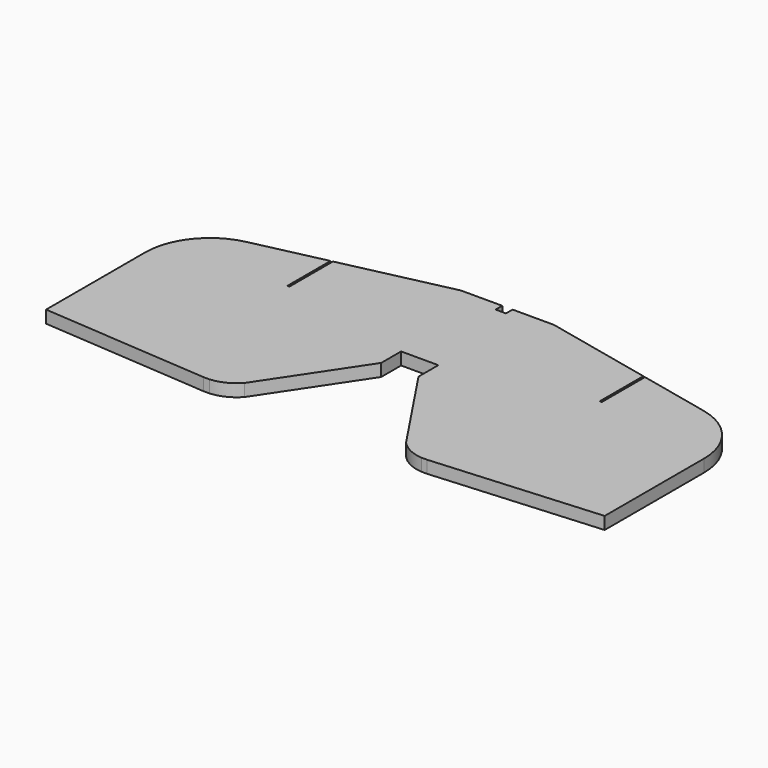
from build123d import *

# Parameters (mm, degrees)
F1_DEPTH = 6


with BuildPart() as f1:
    # F0 (on Top) → F1 (new body)
    with BuildSketch(Plane.XY):
        with BuildLine():
            Line((-135, 21.9318206776), (-135, -38.0681793224))
            Line((-135, -38.0681793224), (-54, -38.0681793224))
            Line((-54, -38.0681793224), (-39, -38.0681793224))
            Line((-39, -38.0681793224), (-39, 6.9318206776))
            Line((-39, 6.9318206776), (-9, 6.9318206776))
            Line((-9, 6.9318206776), (-9, 18.9318206776))
            Line((-9, 18.9318206776), (-9, 33.9318206776))
            Line((-9, 33.9318206776), (-75, 33.9318206776))
            Line((-75, 33.9318206776), (-76, 33.9318206776))
            Line((-76, 33.9318206776), (-76, 46.9318206776))
            Line((-76, 46.9318206776), (-122.4432589807, 46.9318206776))
            ThreePointArc((-122.4432589807, 46.9318206776), (-131.6844515136, 35.9199562309), (-135, 21.9318206776))
        make_face()
        Polygon((-39, 6.9318206776), (-39, -38.0681793224), (-9, 6.9318206776), align=None)
        Polygon((9, 6.9318206776), (39, -38.0681793224), (39, 6.9318206776), align=None)
        with BuildLine():
            Line((54, -38.0681793224), (135, -38.0681793224))
            Line((135, -38.0681793224), (135, 21.9318206776))
            ThreePointArc((135, 21.9318206776), (131.6844515136, 35.9199562309), (122.4432589807, 46.9318206776))
            Line((122.4432589807, 46.9318206776), (76, 46.9318206776))
            Line((76, 46.9318206776), (76, 33.9318206776))
            Line((76, 33.9318206776), (75, 33.9318206776))
            Line((75, 33.9318206776), (9, 33.9318206776))
            Line((9, 33.9318206776), (9, 18.9318206776))
            Line((9, 18.9318206776), (9, 6.9318206776))
            Line((9, 6.9318206776), (39, 6.9318206776))
            Line((39, 6.9318206776), (39, -38.0681793224))
            Line((39, -38.0681793224), (54, -38.0681793224))
        make_face()
        with BuildLine():
            Line((-39, -38.0681793224), (-54, -38.0681793224))
            Line((-54, -38.0681793224), (-54, -44.0681793224))
            Line((-54, -44.0681793224), (-51.28125, -44.0681793224))
            ThreePointArc((-51.28125, -44.0681793224), (-44.5628777893, -42.2507556443), (-39, -38.0681793224))
        make_face()
        Polygon((-54, -38.0681793224), (-135, -38.0681793224), (-54, -44.0681793224), align=None)
        with BuildLine():
            Line((54, -44.0681793224), (54, -38.0681793224))
            Line((54, -38.0681793224), (39, -38.0681793224))
            ThreePointArc((39, -38.0681793224), (44.5628777893, -42.2507556443), (51.28125, -44.0681793224))
            Line((51.28125, -44.0681793224), (54, -44.0681793224))
        make_face()
        Polygon((54, -44.0681793224), (135, -38.0681793224), (54, -38.0681793224), align=None)
        Polygon((75, 33.9318206776), (75, 46.9318206776), (-75, 46.9318206776), (-75, 33.9318206776), (-9, 33.9318206776), (0, 33.9318206776), (9, 33.9318206776), align=None)
        Polygon((22.5, 62.9270896316), (22.5, 71.9318206776), (2.5, 71.9318206776), (2.5, 67.9318206776), (-2.5, 67.9318206776), (-2.5, 71.9318206776), (-22.5, 71.9318206776), (-22.5, 62.9270896316), align=None)
        with BuildLine():
            ThreePointArc((-110.5953234954, 52.3550821231), (-116.8058887661, 50.2695670793), (-122.4432589807, 46.9318206776))
            Line((-122.4432589807, 46.9318206776), (-76, 46.9318206776))
            Line((-76, 46.9318206776), (-76, 60.0429317887))
            Line((-76, 60.0429317887), (-110.5953234954, 52.3550821231))
        make_face()
        with BuildLine():
            Line((76, 46.9318206776), (122.4432589807, 46.9318206776))
            ThreePointArc((122.4432589807, 46.9318206776), (116.8058887661, 50.2695670793), (110.5953234954, 52.3550821231))
            Line((110.5953234954, 52.3550821231), (76, 60.0429317887))
            Line((76, 60.0429317887), (76, 46.9318206776))
        make_face()
        Polygon((-75, 46.9318206776), (75, 46.9318206776), (75, 60.2651540109), (22.5, 71.9318206776), (22.5, 62.9270896316), (-22.5, 62.9270896316), (-22.5, 71.9318206776), (-75, 60.2651540109), align=None)
        Polygon((-9, 18.9318206776), (9, 18.9318206776), (9, 33.9318206776), (0, 33.9318206776), (-9, 33.9318206776), align=None)
    extrude(amount=F1_DEPTH)


solid = f1.part
